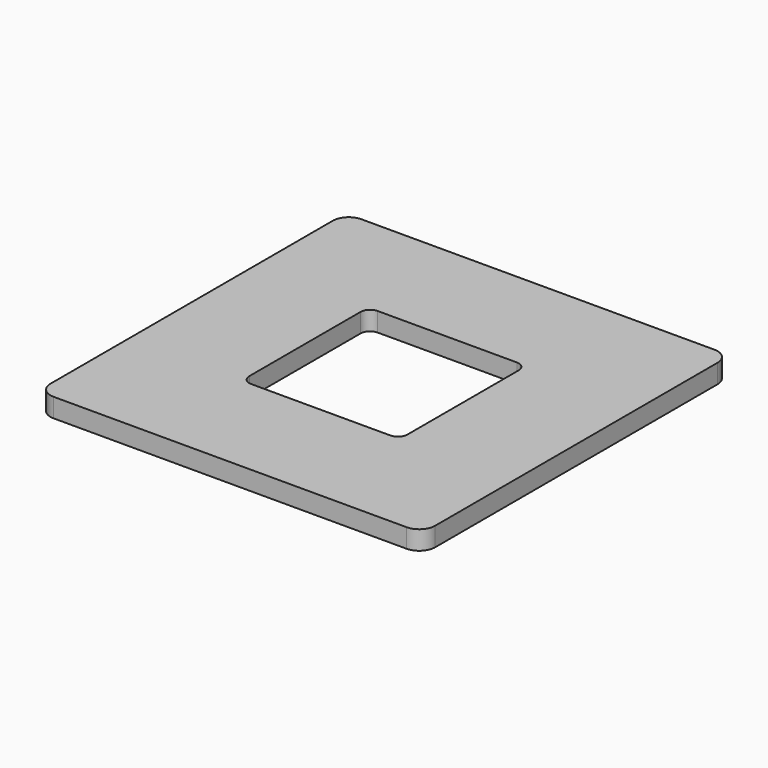
from build123d import *

# Parameters (mm, degrees)
F1_DEPTH = 6
F3_DEPTH = 10


with BuildPart() as f1:
    # F0 (on Top) → F1 (new body)
    with BuildSketch(Plane.XY):
        with BuildLine():
            Line((-55.8, -60.8), (55.8, -60.8))
            ThreePointArc((55.8, -60.8), (59.335534, -59.335534), (60.8, -55.8))
            Line((60.8, -55.8), (60.8, 55.8))
            ThreePointArc((60.8, 55.8), (59.335534, 59.335534), (55.8, 60.8))
            Line((55.8, 60.8), (-55.8, 60.8))
            ThreePointArc((-55.8, 60.8), (-59.335534, 59.335534), (-60.8, 55.8))
            Line((-60.8, 55.8), (-60.8, -55.8))
            ThreePointArc((-60.8, -55.8), (-59.335534, -59.335534), (-55.8, -60.8))
        make_face()
    extrude(amount=-F1_DEPTH)

    # F2 (on face) → F3 (cut)
    with BuildSketch(Plane.XY):
        with BuildLine():
            Line((-22, -25), (22, -25))
            ThreePointArc((22, -25), (24.12132, -24.12132), (25, -22))
            Line((25, -22), (25, 22))
            ThreePointArc((25, 22), (24.12132, 24.12132), (22, 25))
            Line((22, 25), (-22, 25))
            ThreePointArc((-22, 25), (-24.12132, 24.12132), (-25, 22))
            Line((-25, 22), (-25, -22))
            ThreePointArc((-25, -22), (-24.12132, -24.12132), (-22, -25))
        make_face()
    extrude(amount=-F3_DEPTH, mode=Mode.SUBTRACT)


solid = f1.part
